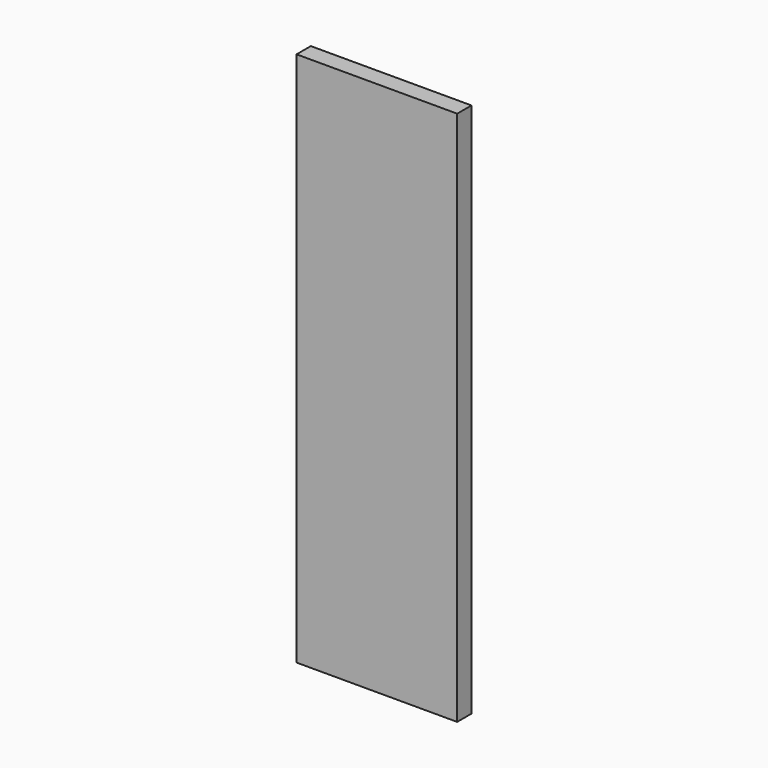
from build123d import *

# Parameters (mm, degrees)
SKETCH_W  = 900
SKETCH_H  = 100
PAD_DEPTH = 3000


with BuildPart() as body:
    # Sketch → Pad (new body)
    with BuildSketch(Plane.XY):
        Rectangle(SKETCH_W, SKETCH_H)
    extrude(amount=PAD_DEPTH)


with BuildPart() as wall0900_clone:
    # Clone base: copy of Body
    add(body.part)


solid = Compound([body.part, wall0900_clone.part])
